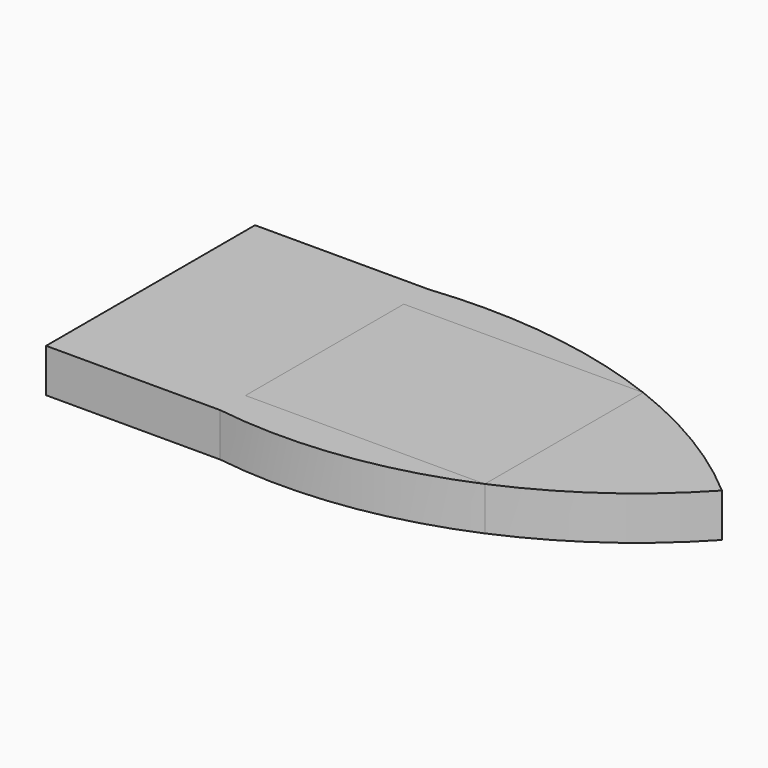
from build123d import *

# Parameters (mm, degrees)
F0_W     = 22.86
F0_H     = 40.843565
F1_DEPTH = 6.35
F2_DEPTH = 6.35
F0_W_2   = 69.85
F0_H_2   = 57.749105
F3_DEPTH = 6.35


with BuildPart() as f1:
    # F0 (on Top) → F1 (new body, symmetric)
    with BuildSketch(Plane.XY):
        Polygon((-40.730062, 35.770836), (-91.530062, 35.770836), (-91.530062, -40.429164), (-40.730062, -40.429164), (-40.730062, -31.220334), (-40.730062, 26.528771), align=None)
        with Locations((-78.830062, 0.109054)):
            Rectangle(F0_W, F0_H, mode=Mode.SUBTRACT)
        with BuildLine():
            ThreePointArc((29.119938, 26.528771), (-5.255576, 35.302732), (-40.730062, 35.770836))
            Line((-40.730062, 35.770836), (-40.730062, 26.528771))
            Line((-40.730062, 26.528771), (29.119938, 26.528771))
        make_face()
        with BuildLine():
            ThreePointArc((73.310904, 0), (52.361641, 15.173729), (29.119938, 26.528771))
            Line((29.119938, 26.528771), (29.119938, -31.220334))
            ThreePointArc((29.119938, -31.220334), (52.857458, -17.934396), (73.310904, 0))
        make_face()
        with BuildLine():
            Line((-40.730062, -31.220334), (-40.730062, -40.429164))
            ThreePointArc((-40.730062, -40.429164), (-5.1694, -40.646315), (29.119938, -31.220334))
            Line((29.119938, -31.220334), (-40.730062, -31.220334))
        make_face()
    extrude(amount=F1_DEPTH, both=True)

    # F0 (on Top) → F2 (join)
    with BuildSketch(Plane.XY):
        with Locations((-78.830062, 0.109054)):
            Rectangle(F0_W, F0_H)
    extrude(amount=F2_DEPTH)


with BuildPart() as f3:
    # F0 (on Top) → F3 (new body)
    with BuildSketch(Plane.XY):
        with Locations((-5.805062, -2.345781)):
            Rectangle(F0_W_2, F0_H_2)
    extrude(amount=F3_DEPTH)


solid = Compound([f1.part, f3.part])
